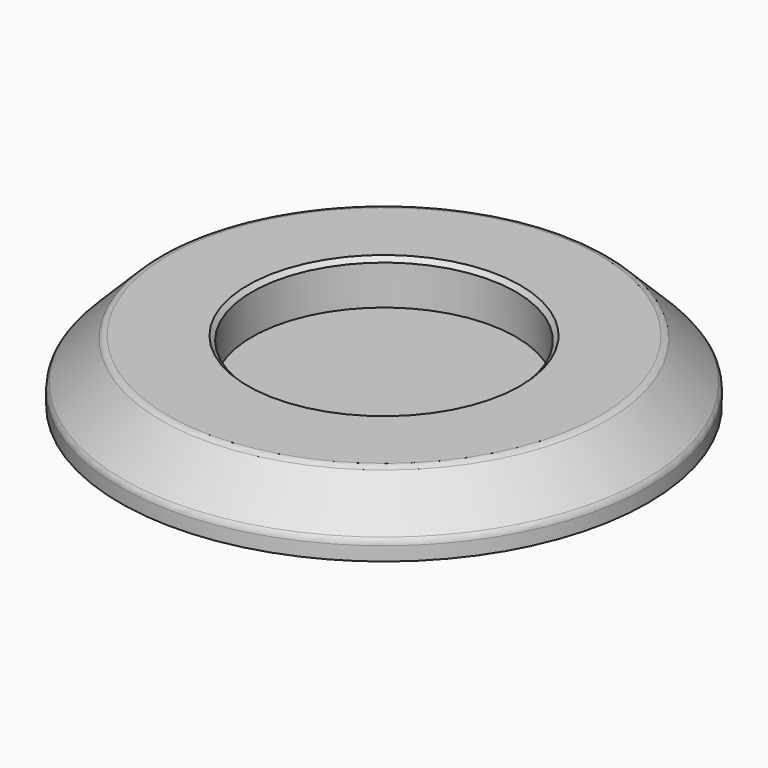
from build123d import *

# Parameters (mm, degrees)
F2_SIZE = 5
F3_SIZE = 0.5
F4_R    = 1


with BuildPart() as f1:
    # F0 (on Front) → F1 (revolve)
    with BuildSketch(Plane.XZ):
        Polygon((15, 2), (0, 2), (0, 0), (30, 0), (30, 7), (15, 7), align=None)
    revolve(axis=Axis((0, 0, 16.768291272), (0, 0, -1)))

    # F2
    f2_edges = [f1.edges().sort_by_distance(p)[0] for p in [
        (-30, 0, 7),
    ]]
    chamfer(f2_edges, length=F2_SIZE)

    # F3
    f3_edges = [f1.edges().sort_by_distance(p)[0] for p in [
        (-15, 0, 7),
    ]]
    chamfer(f3_edges, length=F3_SIZE)

    # F4
    f4_edges = [f1.edges().sort_by_distance(p)[0] for p in [
        (-25, 0, 7),
        (-30, 0, 2),
    ]]
    fillet(f4_edges, radius=F4_R)


solid = f1.part
